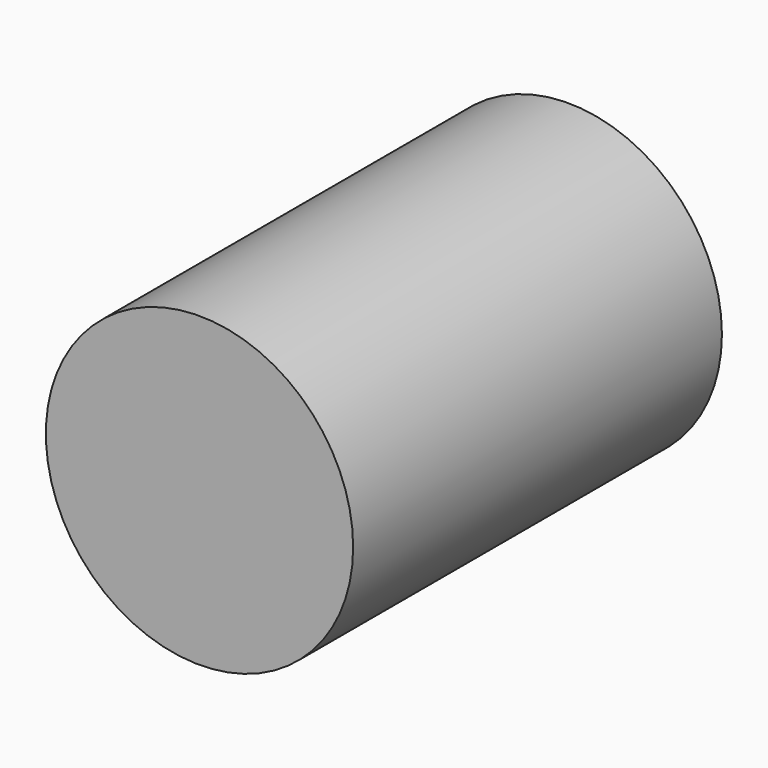
from build123d import *

# Parameters (mm, degrees)
F0_R      = 25.396967
F1_DEPTH  = 101.6
F2_R      = 20.469635
F1_FACE_R = 25.396967
F3_DEPTH  = 25.4


with BuildPart() as f1:
    # F0 (on Front) → F1 (new body)
    with BuildSketch(Plane.XZ):
        Circle(F0_R)
    extrude(amount=F1_DEPTH)

    # F2 (on face) + F1_face (on face) → F3 (cut)
    with BuildSketch(Plane.XZ.offset(101.6)):
        Circle(F2_R)
    with BuildSketch(Plane.XZ.offset(101.6)):
        Circle(F1_FACE_R)
        Circle(F1_FACE_R)
    extrude(amount=-F3_DEPTH, mode=Mode.SUBTRACT)


solid = f1.part
